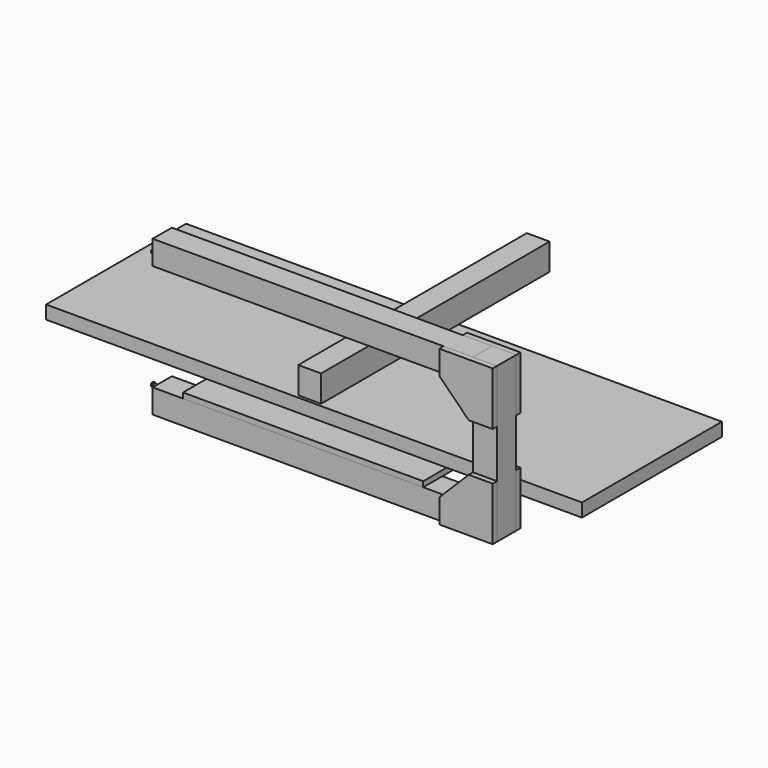
from build123d import *

# Parameters (mm, degrees)
F0_W          = 45
F0_H          = 290
F1_DEPTH      = 22.5
F2_W          = 600
F2_H          = 45
F3_DEPTH      = 22.5
F5_DEPTH      = 10
F8_R          = 2.5
F9_DEPTH      = 15
F9_DEPTH_BACK = 25
F10_R         = 4
F11_DEPTH     = 3
F13_W         = 450
F13_H         = 145
F14_DEPTH     = 10
F15_W         = 1003.819286
F15_H         = 327.730939
F16_DEPTH     = 25
F17_W         = 42.789608
F17_H         = 535.016
F18_DEPTH     = 50


with BuildPart() as f1:
    # F0 (on Front) → F1 (new body, symmetric)
    with BuildSketch(Plane.XZ):
        Rectangle(F0_W, F0_H)
    extrude(amount=F1_DEPTH, both=True)


with BuildPart() as f3:
    # F2 (on Front) → F3 (new body, symmetric)
    with BuildSketch(Plane.XZ):
        with Locations((-322.5, 122.5)):
            Rectangle(F2_W, F2_H)
        with Locations((-322.5, -122.5)):
            Rectangle(F2_W, F2_H)
    extrude(amount=F3_DEPTH, both=True)


with BuildPart() as f5:
    # F4 (on face) → F5 (new body)
    with BuildSketch(Plane.XZ.offset(22.5)):
        Polygon((-77.5, -145), (22.5, -145), (22.5, -45), (-22.5, -45), (-77.5, -100), align=None)
    extrude(amount=F5_DEPTH)


with BuildPart() as f6_1:
    # F6: instance of F5
    add(f5.part.mirror(Plane.XZ))


with BuildPart() as f7_1:
    # F7: instance of F5
    add(f5.part.mirror(Plane.XY))


with BuildPart() as f7_2:
    # F7: instance of F6_1
    add(f6_1.part.mirror(Plane.XY))


with BuildPart() as f9:
    # F8 (on face) → F9 (new body, two sides)
    with BuildSketch(Plane(origin=(-622.5, 0, 0), x_dir=(0, -1, 0), z_dir=(-1, 0, 0))) as f9_sk:
        with Locations((0, 110)):
            Circle(F8_R)
    extrude(amount=F9_DEPTH)
    extrude(f9_sk.sketch, amount=-F9_DEPTH_BACK)

    # F10 (on face) → F11 (join)
    with BuildSketch(Plane(origin=(-637.5, 0, 0), x_dir=(0, -1, 0), z_dir=(-1, 0, 0))):
        with Locations((0, 110)):
            Circle(F10_R)
    extrude(amount=F11_DEPTH)


with BuildPart() as f12_1:
    # F12: instance of F9
    add(f9.part.mirror(Plane.XY))


with BuildPart() as f14:
    # F13 (on face) → F14 (new body)
    with BuildSketch(Plane.XY.offset(-100)):
        with Locations((-340.681428, 50)):
            Rectangle(F13_W, F13_H)
    extrude(amount=F14_DEPTH)


with BuildPart() as f16:
    # F15 (on face) → F16 (new body)
    with BuildSketch(Plane.XY.offset(-90)):
        with Locations((-364.23257, 196.365469)):
            Rectangle(F15_W, F15_H)
    extrude(amount=F16_DEPTH)


with BuildPart() as f18:
    # F17 (on face) → F18 (new body)
    with BuildSketch(Plane.XY.offset(-65)):
        with Locations((-376.979247, 305.81972)):
            Rectangle(F17_W, F17_H)
    extrude(amount=F18_DEPTH)


solid = Compound([f1.part, f3.part, f5.part, f6_1.part, f7_1.part, f7_2.part, f9.part, f12_1.part, f14.part, f16.part, f18.part])
